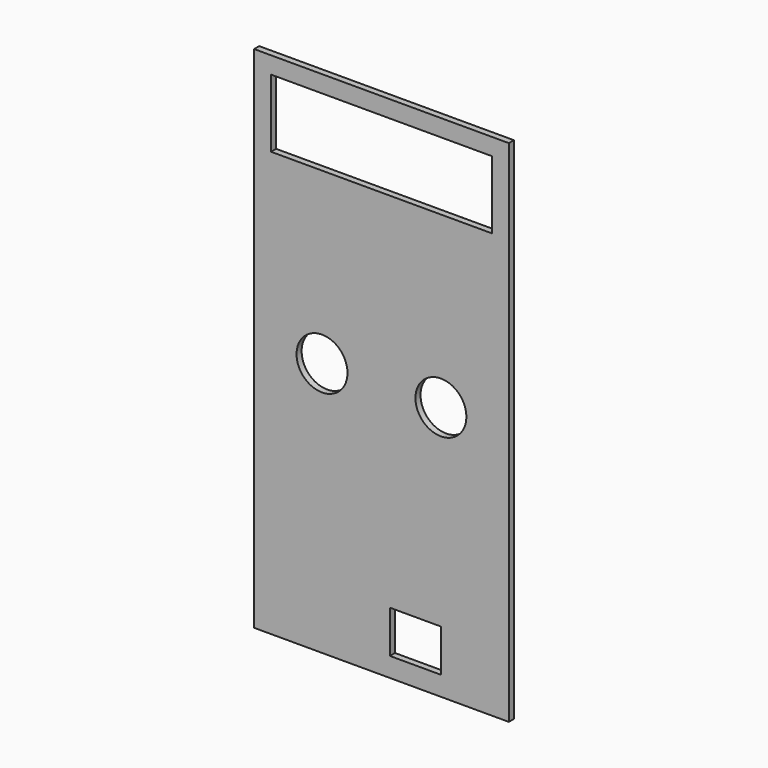
from build123d import *

# Parameters (mm, degrees)
F0_W     = 762
F0_H     = 1524
F0_W_2   = 152.4
F0_H_2   = 127
F0_R     = 76.2
F0_W_3   = 660.4
F0_H_3   = 203.2
F1_DEPTH = 19.05


with BuildPart() as f1:
    # F0 (on Front) → F1 (new body)
    with BuildSketch(Plane.XZ):
        with Locations((381, 762)):
            Rectangle(F0_W, F0_H)
        with Locations((482.6, 121.575905)):
            Rectangle(F0_W_2, F0_H_2, mode=Mode.SUBTRACT)
        with Locations((203.2, 762)):
            Circle(F0_R, mode=Mode.SUBTRACT)
        with Locations((558.8, 762)):
            Circle(F0_R, mode=Mode.SUBTRACT)
        with Locations((381, 1371.6)):
            Rectangle(F0_W_3, F0_H_3, mode=Mode.SUBTRACT)
    extrude(amount=F1_DEPTH)


solid = f1.part
